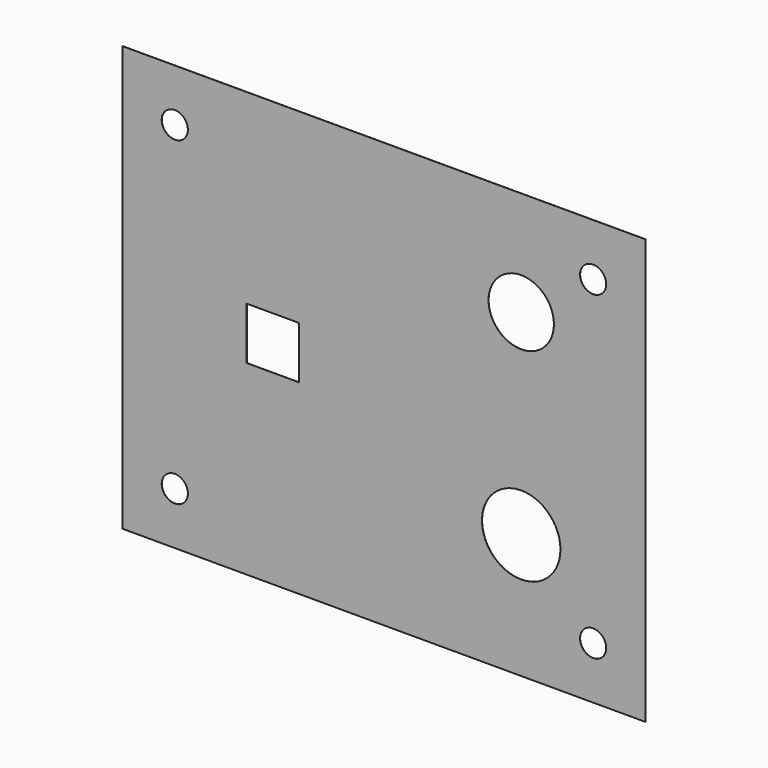
from build123d import *

# Parameters (mm, degrees)
F0_W     = 40
F0_H     = 32.5
F0_R     = 1
F0_R_2   = 4.5
F0_R_3   = 3
F0_W_2   = 12
F0_H_2   = 12
F0_W_3   = 4
F0_H_3   = 4
F0_H_4   = 1.5
F0_R_4   = 2.5
F1_DEPTH = 0.01


with BuildPart() as f1:
    # F0 (on Front) → F1 (new body)
    with BuildSketch(Plane.XZ):
        with Locations((40, 16.25)):
            Rectangle(F0_W, F0_H)
        with Locations((24, 4)):
            Circle(F0_R, mode=Mode.SUBTRACT)
        with Locations((56, 4)):
            Circle(F0_R, mode=Mode.SUBTRACT)
        with Locations((50.5, 9.5)):
            Circle(F0_R_2, mode=Mode.SUBTRACT)
        Polygon((25.5, 10.25), (25.5, 22.25), (25.5, 23.75), (37.5, 23.75), (37.5, 22.25), (37.5, 10.25), (37.5, 8.75), (25.5, 8.75), align=None, mode=Mode.SUBTRACT)
        with Locations((24, 28.5)):
            Circle(F0_R, mode=Mode.SUBTRACT)
        with Locations((50.5, 24.5)):
            Circle(F0_R_3, mode=Mode.SUBTRACT)
        with Locations((56, 28.5)):
            Circle(F0_R, mode=Mode.SUBTRACT)
        with Locations((31.5, 16.25)):
            Rectangle(F0_W_2, F0_H_2)
        with Locations((31.5, 16.25)):
            Rectangle(F0_W_3, F0_H_3, mode=Mode.SUBTRACT)
        with Locations((31.5, 9.5)):
            Rectangle(F0_W_2, F0_H_4)
        with Locations((31.5, 23)):
            Rectangle(F0_W_2, F0_H_4)
        with Locations((50.5, 9.5)):
            Circle(F0_R_2)
        with Locations((50.5, 9.5)):
            Circle(F0_R_3, mode=Mode.SUBTRACT)
        with Locations((50.5, 24.5)):
            Circle(F0_R_3)
        with Locations((50.5, 24.5)):
            Circle(F0_R_4, mode=Mode.SUBTRACT)
    extrude(amount=-F1_DEPTH)


solid = f1.part
